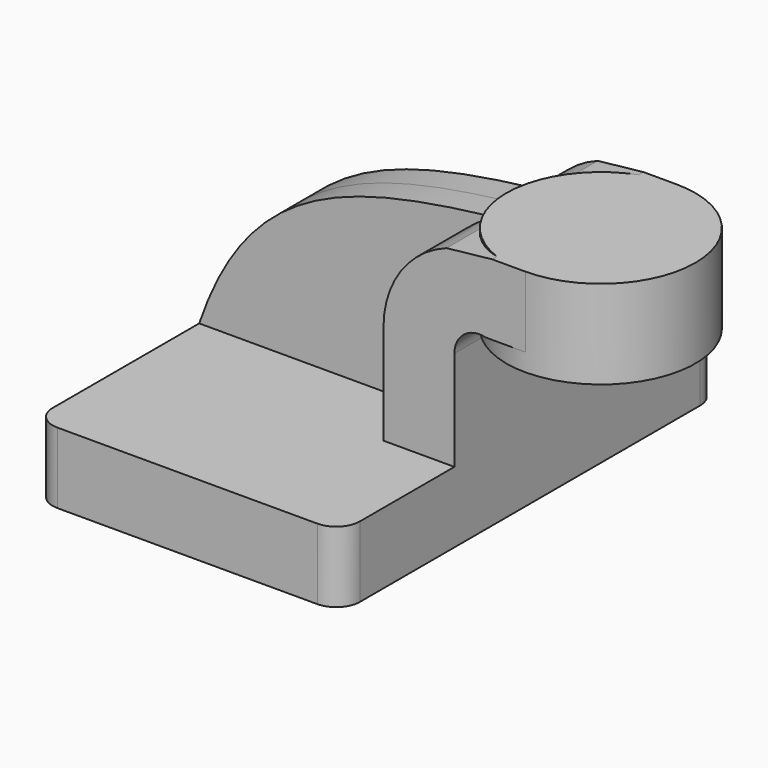
from build123d import *

# Parameters (mm, degrees)
F1_DEPTH = 63.5
F2_DEPTH = 25.4
F3_DEPTH = 7.9375
F5_R     = 6.35


with BuildPart() as f1:
    # F0 (on Front) → F1 (new body, symmetric)
    with BuildSketch(Plane.XZ):
        Polygon((22.225, 9.525), (-41.275, 9.525), (-41.275, -9.525), (41.275, -9.525), (41.275, 9.525), align=None)
    extrude(amount=F1_DEPTH, both=True)

    # F0 (on Front) → F2 (join, symmetric)
    with BuildSketch(Plane.XZ):
        with BuildLine():
            Line((22.225, 36.372416), (22.225, 9.525))
            Line((22.225, 9.525), (41.275, 9.525))
            Line((41.275, 9.525), (41.275, 36.372416))
            ThreePointArc((41.275, 36.372416), (43.906682, 41.711138), (49.743862, 42.8752))
            Line((49.743862, 42.8752), (60.325, 42.8752))
            Line((60.325, 42.8752), (60.325, 61.9252))
            Line((60.325, 61.9252), (51.428748, 61.9252))
            add(Edge.make_bspline(
                [(39.172455, 60.59283), (43.120534, 61.049962), (47.205418, 61.485125), (51.428748, 61.9252)],
                knots=[97.106887, 97.106887, 97.106887, 97.106887, 106.488336, 106.488336, 106.488336, 106.488336], degree=3))
            ThreePointArc((39.172455, 60.59283), (26.882582, 51.152848), (22.225, 36.372416))
        make_face()
    extrude(amount=F2_DEPTH, both=True)

    # F0 (on Front) → F3 (join, symmetric)
    with BuildSketch(Plane.XZ):
        with BuildLine():
            add(Edge.make_bspline(
                [(-41.275, 9.525), (-27.90281, 48.775516), (-1.693912, 55.861078), (39.172455, 60.59283)],
                knots=[0, 0, 0, 0, 97.106887, 97.106887, 97.106887, 97.106887], degree=3))
            Line((-41.275, 9.525), (22.225, 9.525))
            Line((22.225, 9.525), (22.225, 36.372416))
            ThreePointArc((22.225, 36.372416), (26.882582, 51.152848), (39.172455, 60.59283))
        make_face()
    extrude(amount=F3_DEPTH, both=True)

    # F0 (on Front) → F4 (revolve)
    with BuildSketch(Plane.XZ):
        Polygon((85.725, 61.9252), (60.325, 61.9252), (60.325, 42.8752), (60.325, 38.1), (85.725, 38.1), align=None)
    revolve(axis=Axis((60.325, 0, 52.3875), (0, 0, -1)))

    # F5
    f5_edges = [f1.edges().sort_by_distance(p)[0] for p in [
        (41.275, -63.5, 0),
        (-41.275, -63.5, 0),
        (-41.275, 63.5, 0),
        (41.275, 63.5, 0),
    ]]
    fillet(f5_edges, radius=F5_R)


solid = f1.part
